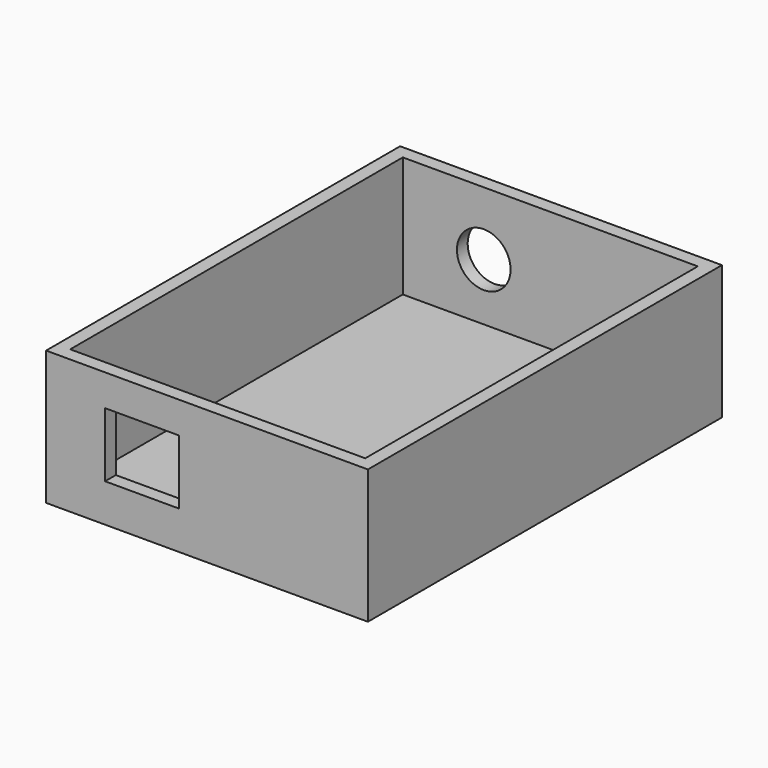
from build123d import *

# Parameters (mm, degrees)
F0_W     = 60.96
F0_H     = 83.82
F1_DEPTH = 25.4
F2_T     = -2.54
F3_W     = 13.97
F3_H     = 12.192
F4_DEPTH = 2.54
F5_R     = 5.08
F6_DEPTH = 2.54


with BuildPart() as f1:
    # F0 (on Top) → F1 (new body)
    with BuildSketch(Plane.XY):
        with Locations((-9.163326, -15.24)):
            Rectangle(F0_W, F0_H)
    extrude(amount=F1_DEPTH)

    # F2
    f2_openings = [f1.faces().sort_by_distance(p)[0] for p in [
        (-9.163326, -15.24, 25.4),
    ]]
    offset(amount=F2_T, openings=f2_openings)

    # F3 (on face) → F4 (cut, through all)
    with BuildSketch(Plane.XZ.offset(57.15)):
        with Locations((-21.482326, 13.335)):
            Rectangle(F3_W, F3_H)
    extrude(amount=-F4_DEPTH, mode=Mode.SUBTRACT)

    # F5 (on face) → F6 (cut, through all)
    with BuildSketch(Plane(origin=(0, 26.67, 0), x_dir=(-1, 0, 0), z_dir=(0, 1, 0))):
        with Locations((21.761726, 13.335)):
            Circle(F5_R)
    extrude(amount=-F6_DEPTH, mode=Mode.SUBTRACT)


solid = f1.part
